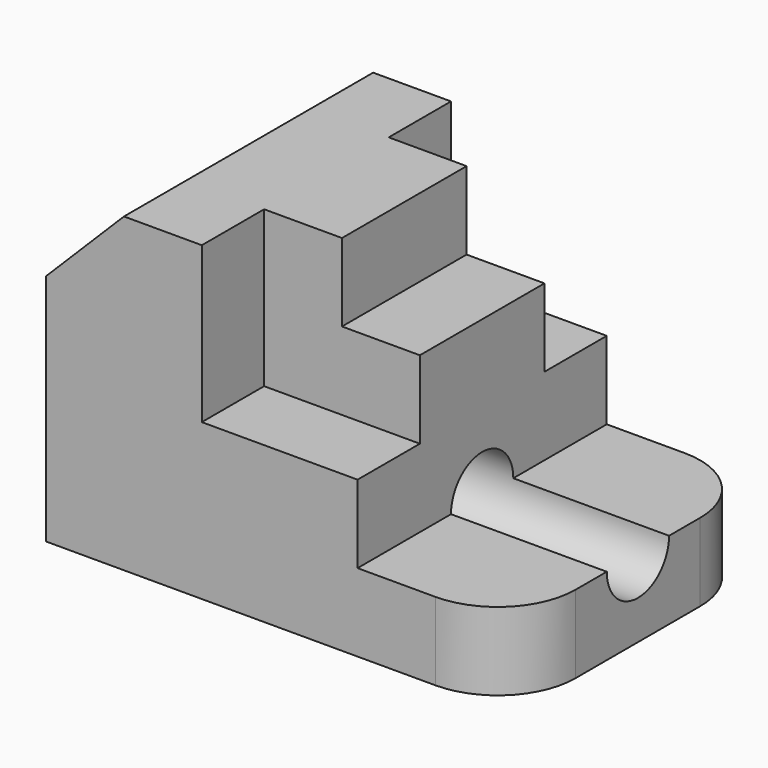
from build123d import *

# Parameters (mm, degrees)
F1_DEPTH = 50.8
F2_W     = 12.7
F2_H     = 25.4
F3_DEPTH = 25.4
F4_W     = 12.7
F4_H     = 12.7
F5_DEPTH = 25.4
F7_DEPTH = 76.201
F8_R     = 12.7


with BuildPart() as f1:
    # F0 (on Front) → F1 (new body)
    with BuildSketch(Plane.XZ):
        Polygon((0, 38.1), (0, 0), (76.2, 0), (76.2, 12.7), (50.8, 12.7), (50.8, 38.1), (38.1, 38.1), (38.1, 50.8), (12.7, 50.8), align=None)
    extrude(amount=F1_DEPTH)

    # F2 (on face) → F3 (cut)
    with BuildSketch(Plane.YZ.offset(50.8)):
        with Locations((-44.45, 38.1)):
            Rectangle(F2_W, F2_H)
    extrude(amount=-F3_DEPTH, mode=Mode.SUBTRACT)

    # F4 (on face) → F5 (cut)
    with BuildSketch(Plane.YZ.offset(50.8)):
        with Locations((-6.35, 31.75)):
            Rectangle(F4_W, F4_H)
        with Locations((-6.35, 44.45)):
            Rectangle(F4_W, F4_H)
    extrude(amount=-F5_DEPTH, mode=Mode.SUBTRACT)

    # F6 (on face) → F7 (cut, through all)
    with BuildSketch(Plane.YZ.offset(76.2)):
        with BuildLine():
            Line((-31.75, 12.7), (-19.05, 12.7))
            ThreePointArc((-19.05, 12.7), (-25.4, 19.05), (-31.75, 12.7))
        make_face()
        with BuildLine():
            ThreePointArc((-31.75, 12.7), (-25.4, 6.35), (-19.05, 12.7))
            Line((-19.05, 12.7), (-31.75, 12.7))
        make_face()
    extrude(amount=-F7_DEPTH, mode=Mode.SUBTRACT)

    # F8
    f8_edges = [f1.edges().sort_by_distance(p)[0] for p in [
        (76.2, -50.8, 6.35),
        (76.2, 0, 6.35),
    ]]
    fillet(f8_edges, radius=F8_R)


solid = f1.part
